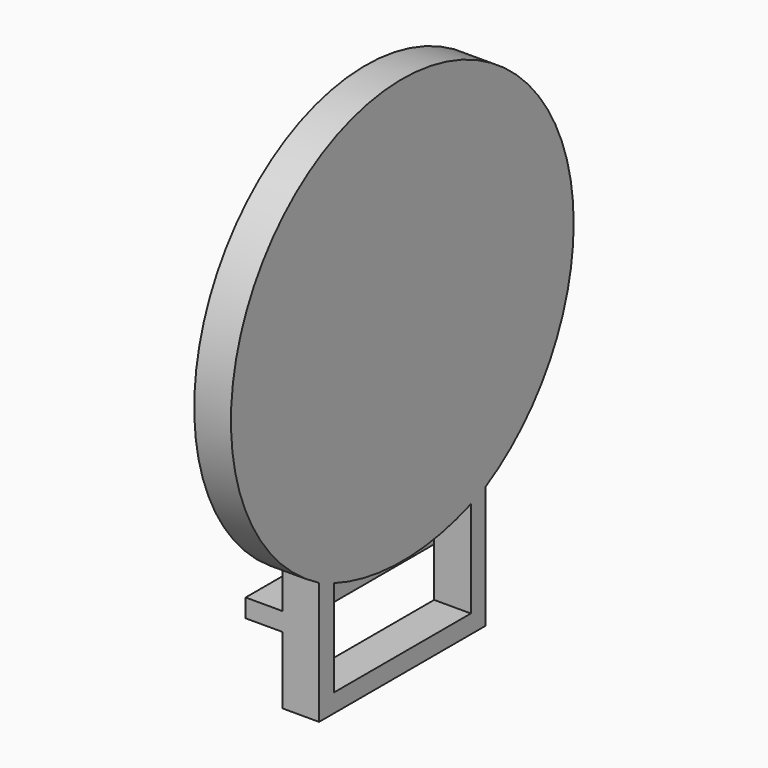
from build123d import *

# Parameters (mm, degrees)
F0_R     = 31.75
F0_W     = 43.18
F0_H     = 13.97
F0_H_2   = 3.81
F1_DEPTH = 7.62
F3_DEPTH = 7.62
F4_DEPTH = 76.2
F5_DEPTH = 7.62


with BuildPart() as f1:
    # F0 (on Right) → F1 (new body)
    with BuildSketch(Plane.YZ):
        with BuildLine():
            ThreePointArc((-21.2379042244, -275.0427409069), (-4.5168222767, -258.7284761869), (1.6220957756, -236.1882122133))
            ThreePointArc((1.6220957756, -236.1882122133), (-65.368168198, -197.8771302656), (-64.4179042244, -275.0427409069))
            Line((-64.4179042244, -275.0427409069), (-21.2379042244, -275.0427409069))
        make_face()
        with Locations((-42.8279042244, -236.1882122133)):
            Circle(F0_R, mode=Mode.SUBTRACT)
        with Locations((-42.8279042244, -236.1882122133)):
            Circle(F0_R)
        with Locations((-42.8279042244, -293.4577409069)):
            Rectangle(F0_W, F0_H)
        with BuildLine():
            ThreePointArc((-21.2379042244, -275.0427409069), (-42.8279042244, -280.6382122133), (-64.4179042244, -275.0427409069))
            Line((-64.4179042244, -275.0427409069), (-64.4179042244, -282.6627409069))
            Line((-64.4179042244, -282.6627409069), (-21.2379042244, -282.6627409069))
            Line((-21.2379042244, -282.6627409069), (-21.2379042244, -275.0427409069))
        make_face()
        with Locations((-42.8279042244, -284.5677409069)):
            Rectangle(F0_W, F0_H_2)
        with BuildLine():
            Line((-21.2379042244, -275.0427409069), (-64.4179042244, -275.0427409069))
            ThreePointArc((-64.4179042244, -275.0427409069), (-42.8279042244, -280.6382122133), (-21.2379042244, -275.0427409069))
        make_face()
    extrude(amount=F1_DEPTH)

    # F0 (on Right) → F3 (join)
    with BuildSketch(Plane.YZ):
        with BuildLine():
            ThreePointArc((-21.2379042244, -275.0427409069), (-4.5168222767, -258.7284761869), (1.6220957756, -236.1882122133))
            ThreePointArc((1.6220957756, -236.1882122133), (-65.368168198, -197.8771302656), (-64.4179042244, -275.0427409069))
            Line((-64.4179042244, -275.0427409069), (-21.2379042244, -275.0427409069))
        make_face()
        with Locations((-42.8279042244, -236.1882122133)):
            Circle(F0_R, mode=Mode.SUBTRACT)
    extrude(amount=F3_DEPTH)

    # F2 (on face) → F4 (cut)
    with BuildSketch(Plane.YZ.offset(7.62)):
        with BuildLine():
            Line((-60.6079042244, -276.6458034995), (-60.6079042244, -296.6327409069))
            Line((-60.6079042244, -296.6327409069), (-25.0479042244, -296.6327409069))
            Line((-25.0479042244, -296.6327409069), (-25.0479042244, -276.6458034995))
            ThreePointArc((-25.0479042244, -276.6458034995), (-42.8279042244, -279.8589187517), (-60.6079042244, -276.6458034995))
        make_face()
    extrude(amount=-F4_DEPTH, mode=Mode.SUBTRACT)

    # F0 (on Right) → F5 (join)
    with BuildSketch(Plane.YZ):
        with Locations((-42.8279042244, -284.5677409069)):
            Rectangle(F0_W, F0_H_2)
    extrude(amount=-F5_DEPTH)


solid = f1.part
